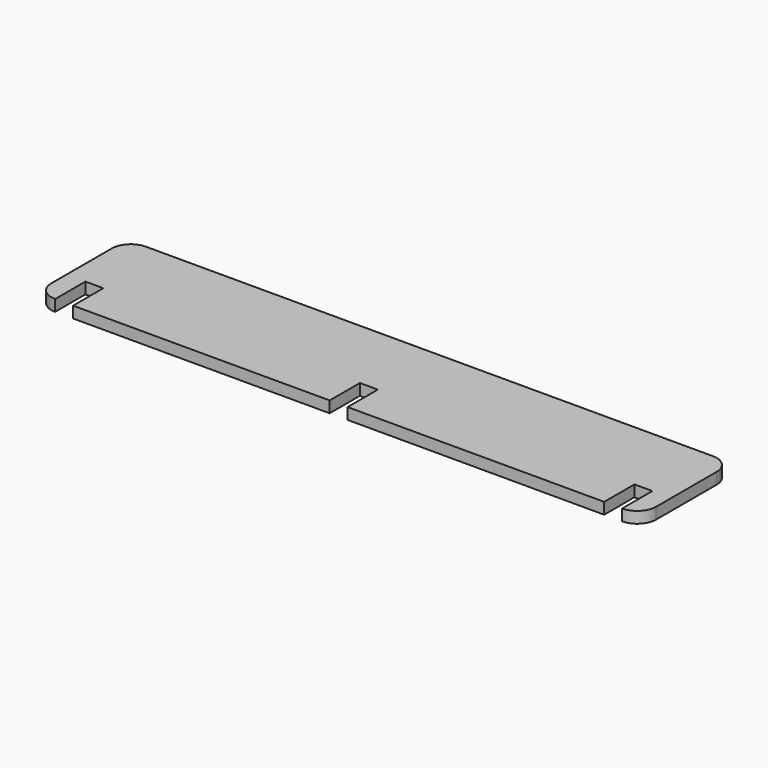
from build123d import *

# Parameters (mm, degrees)
F1_DEPTH = 3


with BuildPart() as f1:
    # F0 (on Top) → F1 (new body)
    with BuildSketch(Plane.XY):
        with BuildLine():
            Line((75, 15), (-75, 15))
            ThreePointArc((-75, 15), (-78.535534, 13.535534), (-80, 10))
            Line((-80, 10), (-80, -10))
            ThreePointArc((-80, -10), (-78.535534, -13.535534), (-75, -15))
            Line((-75, -15), (-75, -5))
            Line((-75, -5), (-70.25, -5))
            Line((-70.25, -5), (-70.25, -15))
            Line((-70.25, -15), (-2.375, -15))
            Line((-2.375, -15), (-2.375, -5))
            Line((-2.375, -5), (2.375, -5))
            Line((2.375, -5), (2.375, -15))
            Line((2.375, -15), (70.25, -15))
            Line((70.25, -15), (70.25, -5))
            Line((70.25, -5), (75, -5))
            Line((75, -5), (75, -15))
            ThreePointArc((75, -15), (78.535534, -13.535534), (80, -10))
            Line((80, -10), (80, 10))
            ThreePointArc((80, 10), (78.535534, 13.535534), (75, 15))
        make_face()
    extrude(amount=F1_DEPTH)


solid = f1.part
